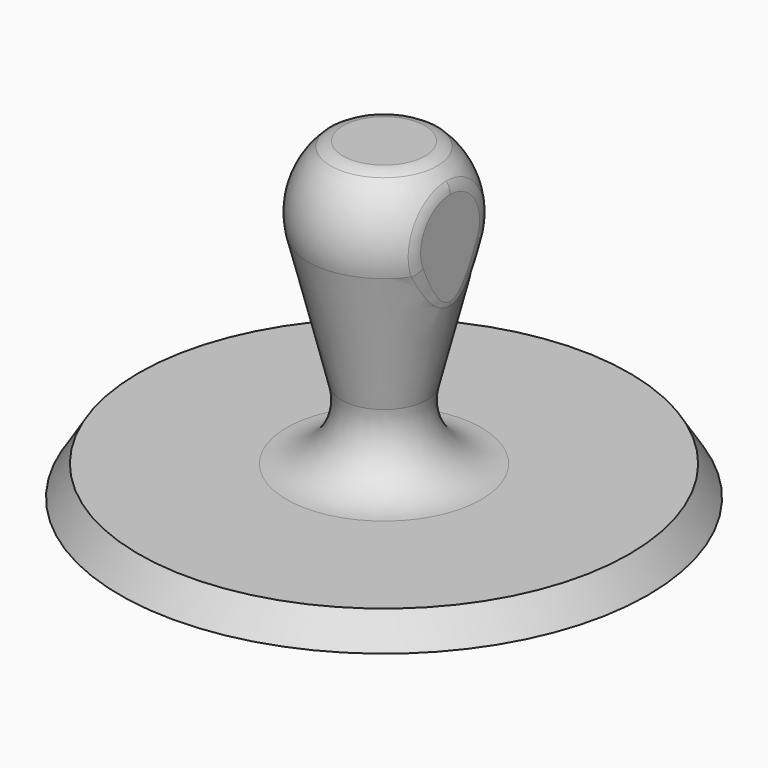
from build123d import *

# Parameters (mm, degrees)
F3_W     = 13.993276
F3_H     = 39.785632
F4_DEPTH = 25
F5_W     = 45.990731
F5_H     = 9.154398
F6_DEPTH = 12.5
F7_R     = 3


with BuildPart() as f1:
    # F0 (on Front) → F1 (revolve)
    with BuildSketch(Plane.XZ):
        with BuildLine():
            Line((0, 55), (0, 0))
            Line((0, 0), (44, 0))
            Line((44, 0), (40.892728, 5))
            Line((40.892728, 5), (16.228148, 5))
            ThreePointArc((16.228148, 5), (8.850146, 8.601889), (7.152097, 16.634642))
            Line((7.152097, 16.634642), (12.695047, 38.726145))
            ThreePointArc((12.695047, 38.726145), (10.319915, 49.961889), (0, 55))
        make_face()
    revolve(axis=Axis((0, 0, 14.176942), (0, 0, -1)))

    # F3 (on offset) → F4 (cut)
    with BuildSketch(Plane.XY.offset(56)):
        with Locations((18.006259, -3.923812)):
            Rectangle(F3_W, F3_H)
    extrude(amount=-F4_DEPTH, mode=Mode.SUBTRACT)

    # F5 (on Front) → F6 (cut, symmetric)
    with BuildSketch(Plane.XZ):
        with Locations((6.243711, 56.915106)):
            Rectangle(F5_W, F5_H)
    extrude(amount=F6_DEPTH, both=True, mode=Mode.SUBTRACT)

    # F7
    f7_edges = [f1.edges().sort_by_distance(p)[0] for p in [
        (-7.911964, 0, 52.337907),
        (11.009621, -6.026784, 45.623109),
        (11.009621, 6.026784, 45.623109),
        (11.009621, -3.847165, 34.610661),
        (11.009621, 3.847165, 34.610661),
    ]]
    fillet(f7_edges, radius=F7_R)


solid = f1.part
